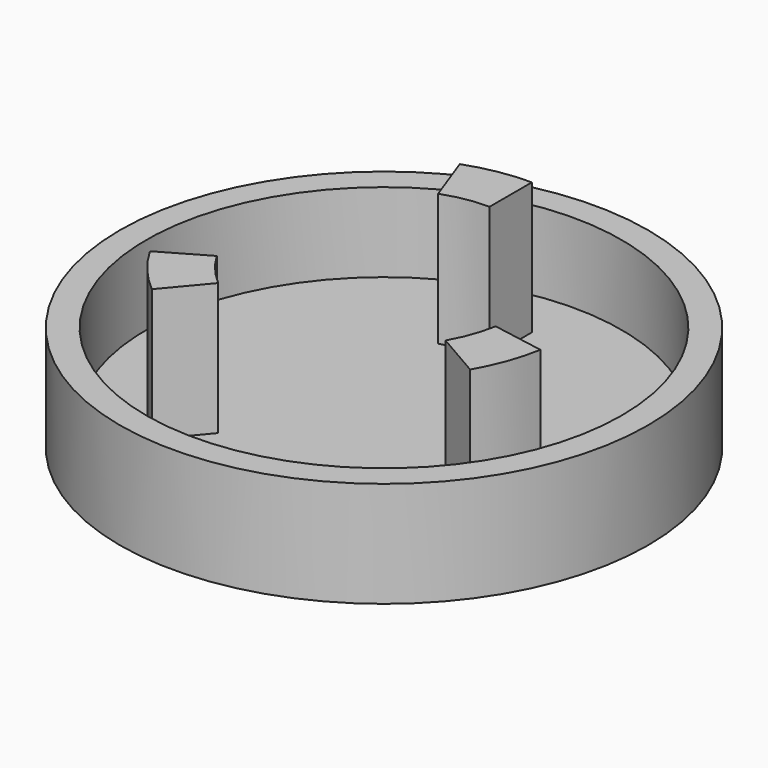
from build123d import *

# Parameters (mm, degrees)
F0_R     = 50
F1_DEPTH = 20
F2_R     = 45
F3_DEPTH = 15
F5_DEPTH = 25


with BuildPart() as f1:
    # F0 (on Top) → F1 (new body)
    with BuildSketch(Plane.XY):
        Circle(F0_R)
    extrude(amount=F1_DEPTH)

    # F2 (on face) → F3 (cut)
    with BuildSketch(Plane.XY.offset(20)):
        Circle(F2_R)
    extrude(amount=-F3_DEPTH, mode=Mode.SUBTRACT)

    # F4 (on face) → F5 (join)
    with BuildSketch(Plane.XY.offset(5)):
        with BuildLine():
            ThreePointArc((0, 35), (-6.077686, 34.468271), (-11.970705, 32.889242))
            Line((-11.970705, 32.889242), (-8.550504, 23.492316))
            ThreePointArc((-8.550504, 23.492316), (-4.341204, 24.620194), (0, 25))
            Line((0, 25), (0, 35))
        make_face()
        with BuildLine():
            ThreePointArc((-30.310889, -17.5), (-26.811556, -22.497566), (-22.497566, -26.811556))
            Line((-22.497566, -26.811556), (-16.06969, -19.151111))
            ThreePointArc((-16.06969, -19.151111), (-19.151111, -16.06969), (-21.650635, -12.5))
            Line((-21.650635, -12.5), (-30.310889, -17.5))
        make_face()
        with BuildLine():
            ThreePointArc((30.310889, -17.5), (32.889242, -11.970705), (34.468271, -6.077686))
            Line((34.468271, -6.077686), (24.620194, -4.341204))
            ThreePointArc((24.620194, -4.341204), (23.492316, -8.550504), (21.650635, -12.5))
            Line((21.650635, -12.5), (30.310889, -17.5))
        make_face()
    extrude(amount=F5_DEPTH)


solid = f1.part
